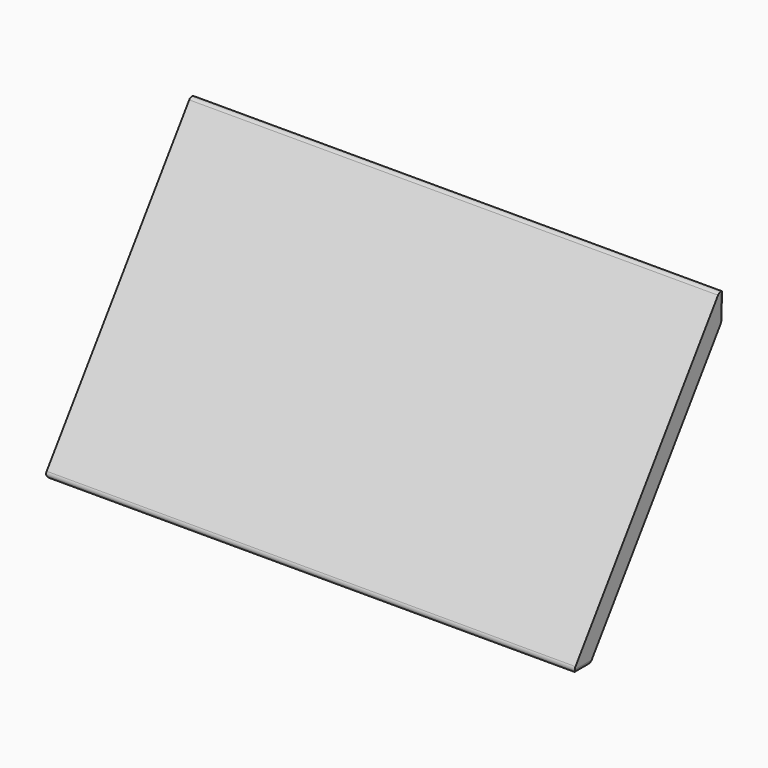
from build123d import *

# Parameters (mm, degrees)
F1_DEPTH = 654.05
F2_R     = 5.08


with BuildPart() as f1:
    # F0 (on Right) → F1 (new body)
    with BuildSketch(Plane.YZ):
        Polygon((235.5678424094, 336.4257445895), (0, 0), (27.1317152352, 0), (234.7739116947, 296.5437889892), align=None)
    extrude(amount=-F1_DEPTH)

    # F2
    f2_edges = [f1.edges().sort_by_distance(p)[0] for p in [
        (-327.025, 234.773912, 296.543789),
        (-327.025, 235.567842, 336.425745),
        (0, 235.170877, 316.484767),
        (-654.05, 235.170877, 316.484767),
        (-327.025, 0, 0),
        (-327.025, 27.131715, 0),
        (0, 13.565858, 0),
        (-654.05, 13.565858, 0),
    ]]
    fillet(f2_edges, radius=F2_R)


solid = f1.part
